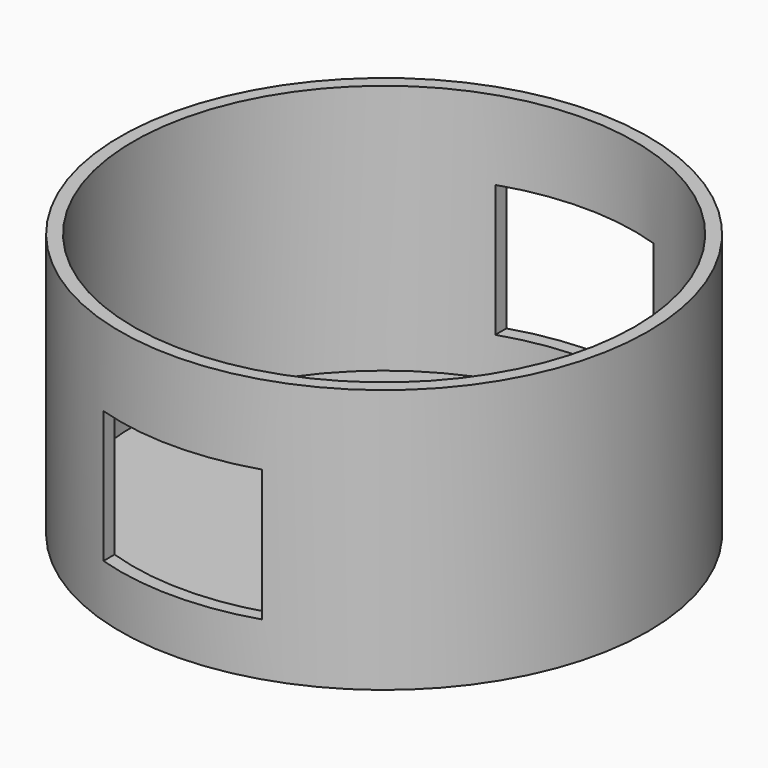
from build123d import *

# Parameters (mm, degrees)
F0_R          = 50
F1_DEPTH      = 50
F2_T          = -2.5
F3_W          = 30
F3_H          = 25
F4_DEPTH      = 50.001
F4_DEPTH_BACK = 50.001


with BuildPart() as f1:
    # F0 (on Top) → F1 (new body)
    with BuildSketch(Plane.XY):
        Circle(F0_R)
    extrude(amount=F1_DEPTH)

    # F2
    f2_openings = [f1.faces().sort_by_distance(p)[0] for p in [
        (0, 0, 50),
    ]]
    offset(amount=F2_T, openings=f2_openings)

    # F3 (on Front) → F4 (cut, two sides)
    with BuildSketch(Plane.XZ) as f4_sk:
        with Locations((0, 22.5)):
            Rectangle(F3_W, F3_H)
    extrude(amount=F4_DEPTH, mode=Mode.SUBTRACT)
    extrude(f4_sk.sketch, amount=-F4_DEPTH_BACK, mode=Mode.SUBTRACT)


solid = f1.part
